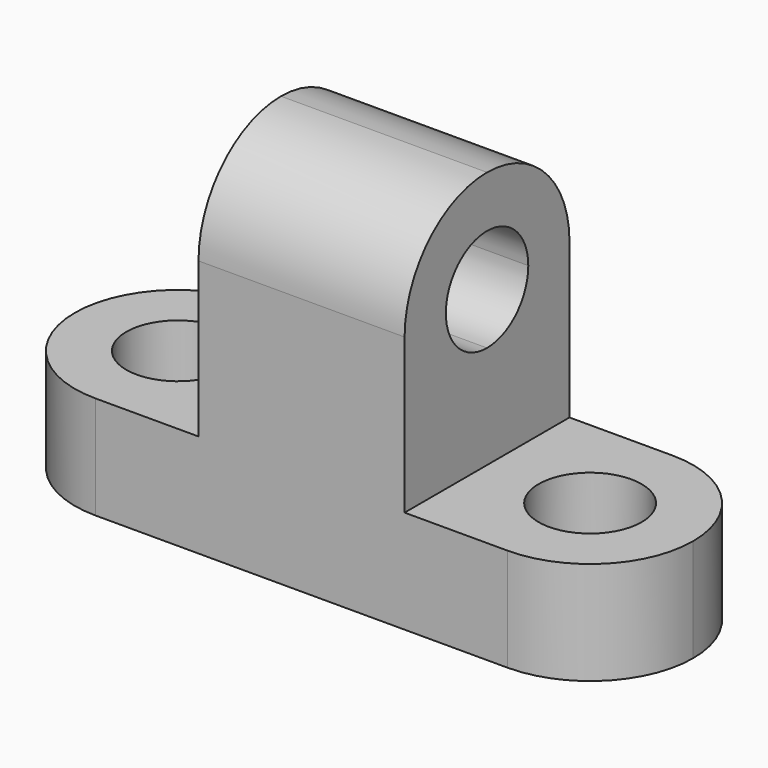
from build123d import *

# Parameters (mm, degrees)
F0_R     = 6.35
F1_DEPTH = 12.7
F3_DEPTH = 31.75
F5_DEPTH = 50.801


with BuildPart() as f1:
    # F0 (on Top) → F1 (new body)
    with BuildSketch(Plane.XY):
        with BuildLine():
            ThreePointArc((0, 12.7), (3.7197438789, 3.7197438789), (12.7, 0))
            ThreePointArc((12.7, 0), (21.6802561211, 3.7197438789), (25.4, 12.7))
            ThreePointArc((25.4, 12.7), (21.6802561211, 21.6802561211), (12.7, 25.4))
            ThreePointArc((12.7, 25.4), (3.7197438789, 21.6802561211), (0, 12.7))
        make_face()
        with BuildLine():
            ThreePointArc((19.05, 12.7), (12.7, 6.35), (6.35, 12.7))
            ThreePointArc((6.35, 12.7), (12.7, 19.05), (19.05, 12.7))
        make_face(mode=Mode.SUBTRACT)
        with BuildLine():
            ThreePointArc((25.4, 12.7), (21.6802561211, 3.7197438789), (12.7, 0))
            Line((12.7, 0), (63.5, 0))
            ThreePointArc((63.5, 0), (50.8, 12.7), (63.5, 25.4))
            Line((63.5, 25.4), (12.7, 25.4))
            ThreePointArc((12.7, 25.4), (21.6802561211, 21.6802561211), (25.4, 12.7))
        make_face()
        with BuildLine():
            ThreePointArc((63.5, 25.4), (50.8, 12.7), (63.5, 0))
            ThreePointArc((63.5, 0), (72.4802561211, 3.7197438789), (76.2, 12.7))
            ThreePointArc((76.2, 12.7), (72.4802561211, 21.6802561211), (63.5, 25.4))
        make_face()
        with Locations((63.5, 12.7)):
            Circle(F0_R, mode=Mode.SUBTRACT)
    extrude(amount=F1_DEPTH)

    # F2 (on face) → F3 (join)
    with BuildSketch(Plane.XY.offset(12.7)):
        Polygon((50.8, 0), (50.8, 12.7), (50.8, 25.4), (25.4, 25.4), (25.4, 12.7), (25.4, 0), align=None)
    extrude(amount=F3_DEPTH)

    # F4 (on face) → F5 (cut, through all)
    with BuildSketch(Plane.YZ.offset(50.8)):
        with BuildLine():
            Line((0, 44.45), (0, 31.75))
            ThreePointArc((0, 31.75), (3.7197438789, 40.7302561211), (12.7, 44.45))
            Line((12.7, 44.45), (0, 44.45))
        make_face()
        with BuildLine():
            ThreePointArc((12.7, 44.45), (21.6802561211, 40.7302561211), (25.4, 31.75))
            Line((25.4, 31.75), (25.4, 44.45))
            Line((25.4, 44.45), (12.7, 44.45))
        make_face()
        with BuildLine():
            ThreePointArc((19.05, 31.75), (8.2098719395, 36.2401280605), (12.7, 25.4))
            ThreePointArc((12.7, 25.4), (17.1901280605, 27.2598719395), (19.05, 31.75))
        make_face()
    extrude(amount=-F5_DEPTH, mode=Mode.SUBTRACT)


solid = f1.part
